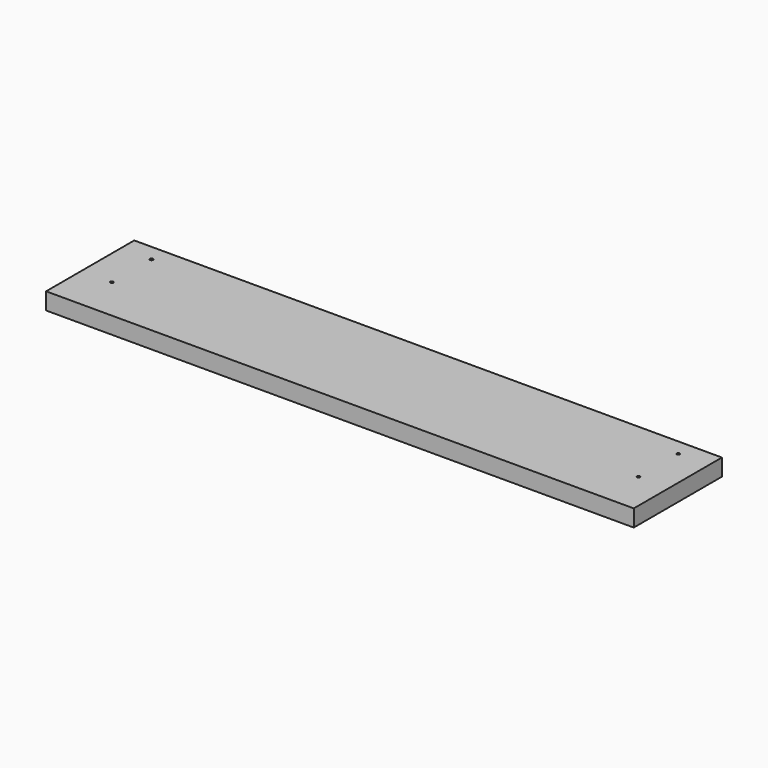
from build123d import *

# Parameters (mm, degrees)
SKETCH_W        = 800
SKETCH_H        = 150
PAD_DEPTH       = 23
SKETCH005_R     = 2.25
SKETCH005_R_2   = 2
POCKET002_DEPTH = 23
SKETCH006_R     = 2.25
SKETCH006_R_2   = 2
POCKET003_DEPTH = 5


with BuildPart() as part:
    # Sketch → Pad (new body)
    with BuildSketch(Plane.XY):
        Rectangle(SKETCH_W, SKETCH_H)
    extrude(amount=PAD_DEPTH)

    # Sketch005 (on Face6 of Pad) → Pocket002 (cut)
    with BuildSketch(Plane.XY.offset(23)):
        with Locations((-358.5, 52.5)):
            Circle(SKETCH005_R)
        with Locations((-358.5, -15)):
            Circle(SKETCH005_R_2)
        with Locations((358.5, -15)):
            Circle(SKETCH005_R_2)
        with Locations((358.5, 52.5)):
            Circle(SKETCH005_R_2)
    extrude(amount=-POCKET002_DEPTH, mode=Mode.SUBTRACT)

    # Sketch006 (on Face3 of Pocket002) → Pocket003 (cut)
    with BuildSketch(Plane(origin=(0, 75, 0), x_dir=(-1, 0, 0), z_dir=(0, 1, 0))):
        with Locations((-358.5, 11.5)):
            Circle(SKETCH006_R)
        with Locations((358.5, 11.5)):
            Circle(SKETCH006_R_2)
    extrude(amount=-POCKET003_DEPTH, mode=Mode.SUBTRACT)


solid = part.part
